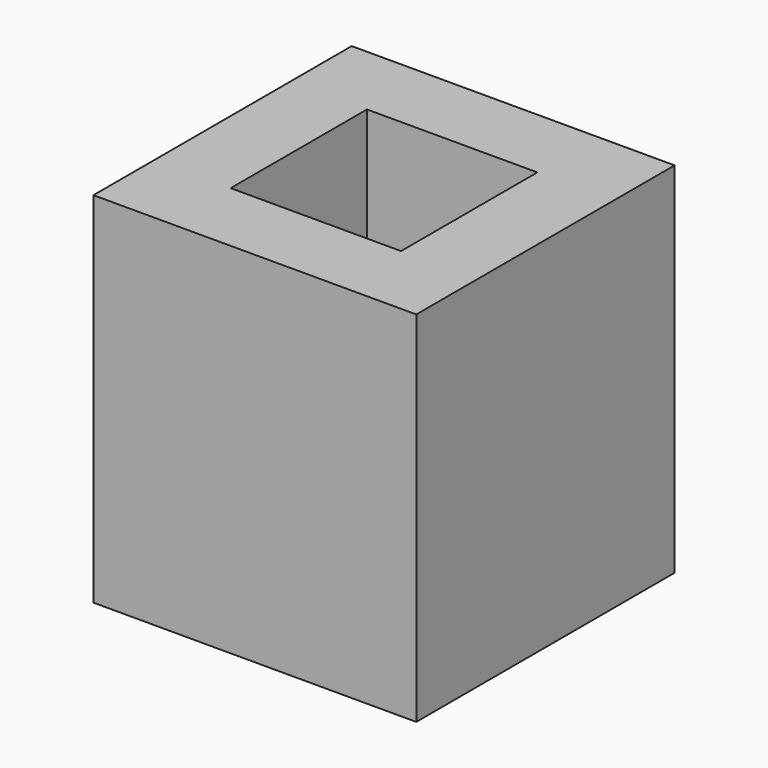
from build123d import *

# Parameters (mm, degrees)
F1_DEPTH = 5
F2_START = 5
F2_DEPTH = 5


with BuildPart() as f1:
    # F0 (on Top) → F1 (new body)
    with BuildSketch(Plane.XY):
        with BuildLine():
            ThreePointArc((0, -4.5), (3.1819805153, -3.1819805153), (4.5, 0))
            ThreePointArc((4.5, 0), (3.1819805153, 3.1819805153), (0, 4.5))
            ThreePointArc((0, 4.5), (-3.1819805153, 3.1819805153), (-4.5, 0))
            ThreePointArc((-4.5, 0), (-3.1819805153, -3.1819805153), (0, -4.5))
        make_face()
        Polygon((2.375, 2.375), (2.375, 0), (2.375, -2.375), (0, -2.375), (-2.375, -2.375), (-2.375, 0), (-2.375, 2.375), (0, 2.375), align=None, mode=Mode.SUBTRACT)
        with BuildLine():
            ThreePointArc((-4.5, 0), (-3.1819805153, 3.1819805153), (0, 4.5))
            Line((0, 4.5), (-4.5, 4.5))
            Line((-4.5, 4.5), (-4.5, 0))
        make_face()
        with BuildLine():
            ThreePointArc((0, 4.5), (3.1819805153, 3.1819805153), (4.5, 0))
            Line((4.5, 0), (4.5, 4.5))
            Line((4.5, 4.5), (0, 4.5))
        make_face()
        with BuildLine():
            Line((4.5, -4.5), (4.5, 0))
            ThreePointArc((4.5, 0), (3.1819805153, -3.1819805153), (0, -4.5))
            Line((0, -4.5), (4.5, -4.5))
        make_face()
        with BuildLine():
            Line((-4.5, -4.5), (0, -4.5))
            ThreePointArc((0, -4.5), (-3.1819805153, -3.1819805153), (-4.5, 0))
            Line((-4.5, 0), (-4.5, -4.5))
        make_face()
        with BuildLine():
            ThreePointArc((-2.375, 0), (-1.6793786053, 1.6793786053), (0, 2.375))
            Line((0, 2.375), (-2.375, 2.375))
            Line((-2.375, 2.375), (-2.375, 0))
        make_face()
        with BuildLine():
            Line((-2.375, -2.375), (0, -2.375))
            ThreePointArc((0, -2.375), (-1.6793786053, -1.6793786053), (-2.375, 0))
            Line((-2.375, 0), (-2.375, -2.375))
        make_face()
        with BuildLine():
            Line((2.375, -2.375), (2.375, 0))
            ThreePointArc((2.375, 0), (1.6793786053, -1.6793786053), (0, -2.375))
            Line((0, -2.375), (2.375, -2.375))
        make_face()
        with BuildLine():
            ThreePointArc((0, 2.375), (1.6793786053, 1.6793786053), (2.375, 0))
            Line((2.375, 0), (2.375, 2.375))
            Line((2.375, 2.375), (0, 2.375))
        make_face()
    extrude(amount=F1_DEPTH)

    # F0 (on Top) → F2 (join)
    with BuildSketch(Plane.XY.offset(F2_START)):
        with BuildLine():
            ThreePointArc((-4.5, 0), (-3.1819805153, 3.1819805153), (0, 4.5))
            Line((0, 4.5), (-4.5, 4.5))
            Line((-4.5, 4.5), (-4.5, 0))
        make_face()
        with BuildLine():
            ThreePointArc((0, -4.5), (3.1819805153, -3.1819805153), (4.5, 0))
            ThreePointArc((4.5, 0), (3.1819805153, 3.1819805153), (0, 4.5))
            ThreePointArc((0, 4.5), (-3.1819805153, 3.1819805153), (-4.5, 0))
            ThreePointArc((-4.5, 0), (-3.1819805153, -3.1819805153), (0, -4.5))
        make_face()
        Polygon((2.375, 2.375), (2.375, 0), (2.375, -2.375), (0, -2.375), (-2.375, -2.375), (-2.375, 0), (-2.375, 2.375), (0, 2.375), align=None, mode=Mode.SUBTRACT)
        with BuildLine():
            Line((-4.5, -4.5), (0, -4.5))
            ThreePointArc((0, -4.5), (-3.1819805153, -3.1819805153), (-4.5, 0))
            Line((-4.5, 0), (-4.5, -4.5))
        make_face()
        with BuildLine():
            Line((4.5, -4.5), (4.5, 0))
            ThreePointArc((4.5, 0), (3.1819805153, -3.1819805153), (0, -4.5))
            Line((0, -4.5), (4.5, -4.5))
        make_face()
        with BuildLine():
            ThreePointArc((0, 4.5), (3.1819805153, 3.1819805153), (4.5, 0))
            Line((4.5, 0), (4.5, 4.5))
            Line((4.5, 4.5), (0, 4.5))
        make_face()
    extrude(amount=F2_DEPTH)


solid = f1.part
